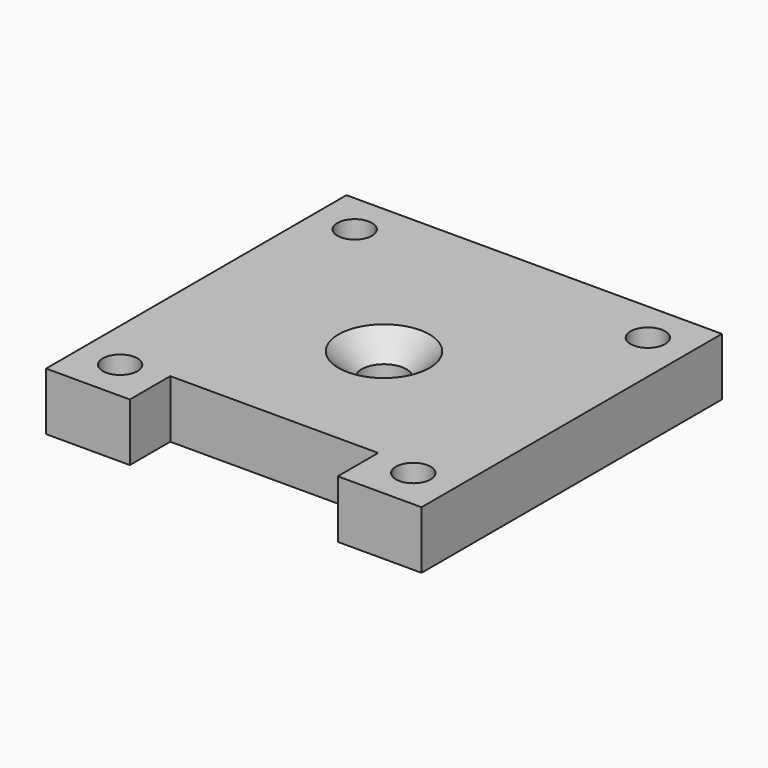
from build123d import *

# Parameters (mm, degrees)
PAD_DEPTH        = 4
HOLE_D           = 3.1
HOLE_CSINK_D     = 6.3
HOLE_CSINK_ANGLE = 90
SKETCH002_R      = 1.2
HOLE001_DEPTH    = 4.001


with BuildPart() as part:
    # Sketch → Pad (new body)
    with BuildSketch(Plane.XY):
        Polygon((-13, -13), (-13, 13), (13, 13), (13, -13), (7.2, -13), (7.2, -9.5), (-7.2, -9.5), (-7.2, -13), align=None)
    extrude(amount=-PAD_DEPTH)

    # Hole (through all)
    with Locations(Plane.XY):
        with Locations((0, 0)):
            CounterSinkHole(HOLE_D / 2, HOLE_CSINK_D / 2, counter_sink_angle=HOLE_CSINK_ANGLE)

    # Sketch002 → Hole001 (cut, through all)
    with BuildSketch(Plane.XY):
        with Locations((-10.15, 10.15)):
            Circle(SKETCH002_R)
        with Locations((10.15, 10.15)):
            Circle(SKETCH002_R)
        with Locations((10.15, -10.15)):
            Circle(SKETCH002_R)
        with Locations((-10.15, -10.15)):
            Circle(SKETCH002_R)
    extrude(amount=-HOLE001_DEPTH, mode=Mode.SUBTRACT)


solid = part.part
